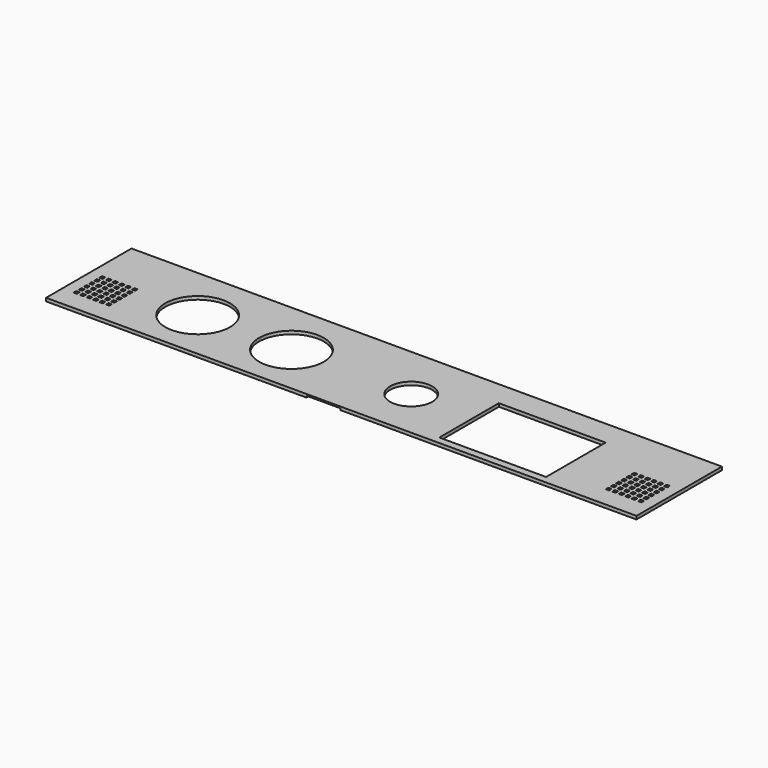
from build123d import *

# Parameters (mm, degrees)
SKETCH035_W           = 2
SKETCH035_H           = 2
EXTRUDE029_DEPTH      = 4
ARRAY005_X_COUNT      = 6
ARRAY005_X_PITCH      = 4
ARRAY005_Y_COUNT      = 6
ARRAY005_Y_PITCH      = 4
SKETCH105_W           = 21
SKETCH105_H           = 64
EXTRUDE096_DEPTH      = 1
SKETCH139_R           = 20
SKETCH139_R_2         = 13
EXTRUDE129_DEPTH      = 1
EXTRUDE129_DEPTH_BACK = 3
SKETCH034_W           = 66
SKETCH034_H           = 46
EXTRUDE028_DEPTH      = 4
SKETCH033_W           = 365
SKETCH033_H           = 66
EXTRUDE027_DEPTH      = 2


with BuildPart() as speaker_grill:
    # Sketch035 → Extrude029 (new body)
    with BuildSketch(Plane.XY.offset(1)):
        with Locations((1, 1)):
            Rectangle(SKETCH035_W, SKETCH035_H)
    extrude(amount=EXTRUDE029_DEPTH)

    # Array005 X: speaker grill ×6


with BuildPart() as speaker_grill_1:
    add(speaker_grill.part)
    with Locations(*[(i * ARRAY005_X_PITCH, 0, 0) for i in range(1, ARRAY005_X_COUNT)]):
        add(speaker_grill.part)

    # Array005 Y: speaker grill ×6


with BuildPart() as speaker_grill_2:
    add(speaker_grill_1.part)
    with Locations(*[(0, i * ARRAY005_Y_PITCH, 0) for i in range(1, ARRAY005_Y_COUNT)]):
        add(speaker_grill_1.part)


with BuildPart() as speaker_grill002:
    # Body018 base: copy of speaker grill
    add(speaker_grill_2.part)


with BuildPart() as speaker_grill002_1:
    # Body018 placement: moved
    add(speaker_grill002.part.moved(Location((332.5, 226, 4))))


with BuildPart() as speaker_grill001:
    # Body017 base: copy of speaker grill
    add(speaker_grill_2.part)


with BuildPart() as speaker_grill001_1:
    # Body017 placement: moved
    add(speaker_grill001.part.moved(Location((3.5, 226, 4))))


with BuildPart() as extrude096:
    # Sketch105 → Extrude096 (new body)
    with BuildSketch(Plane(origin=(0, 0, 5.32), x_dir=(1, 0, 0), z_dir=(0, 0, -1))):
        with Locations((168, -245.5)):
            Rectangle(SKETCH105_W, SKETCH105_H)
    extrude(amount=-EXTRUDE096_DEPTH)


with BuildPart() as extrude129:
    # Sketch139 → Extrude129 (new body, two sides)
    with BuildSketch(Plane(origin=(0, 0, 5.32), x_dir=(1, 0, 0), z_dir=(0, 0, -1))) as extrude129_sk:
        with Locations((65, -245)):
            Circle(SKETCH139_R)
        with Locations((123, -245)):
            Circle(SKETCH139_R)
        with Locations((197, -245)):
            Circle(SKETCH139_R_2)
    extrude(amount=EXTRUDE129_DEPTH)
    extrude(extrude129_sk.sketch, amount=-EXTRUDE129_DEPTH_BACK)


with BuildPart() as bottom_holes:
    # Sketch034 → Extrude028 (new body)
    with BuildSketch(Plane(origin=(0, 0, 4.32), x_dir=(1, 0, 0), z_dir=(0, 0, -1))):
        with Locations((269, -241)):
            Rectangle(SKETCH034_W, SKETCH034_H)
    extrude(amount=-EXTRUDE028_DEPTH)

    # Compound007: union speaker grill002, speaker grill001, Extrude096, Extrude129
    add(speaker_grill002_1.part)
    add(speaker_grill001_1.part)
    add(extrude096.part)
    add(extrude129.part)


with BuildPart() as bottom001:
    # Sketch033 → Extrude027 (new body)
    with BuildSketch(Plane(origin=(0, 0, 7.32), x_dir=(1, 0, 0), z_dir=(0, 0, -1))):
        with Locations((179, -246.5)):
            Rectangle(SKETCH033_W, SKETCH033_H)
    extrude(amount=EXTRUDE027_DEPTH)

    # Cut002: cut bottom holes
    add(bottom_holes.part, mode=Mode.SUBTRACT)


solid = bottom001.part
